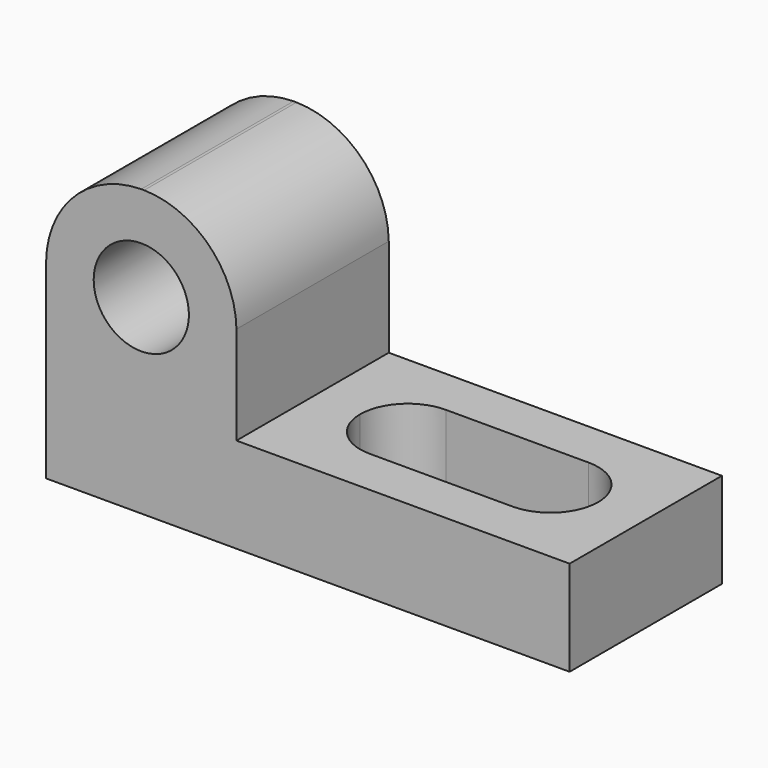
from build123d import *

# Parameters (mm, degrees)
F1_DEPTH = 25.4
F3_DEPTH = 25.401
F5_DEPTH = 25.401
F7_DEPTH = 38.101


with BuildPart() as f1:
    # F0 (on Front) → F1 (new body)
    with BuildSketch(Plane.XZ):
        Polygon((0, 38.1), (0, 0), (69.85, 0), (69.85, 12.7), (25.4, 12.7), (25.4, 38.1), align=None)
    extrude(amount=F1_DEPTH)

    # F2 (on face) → F3 (cut, through all)
    with BuildSketch(Plane.XZ.offset(25.4)):
        with BuildLine():
            Line((6.35, 25.4), (19.05, 25.4))
            ThreePointArc((19.05, 25.4), (12.7, 31.75), (6.35, 25.4))
        make_face()
        with BuildLine():
            ThreePointArc((6.35, 25.4), (12.7, 19.05), (19.05, 25.4))
            Line((19.05, 25.4), (6.35, 25.4))
        make_face()
    extrude(amount=-F3_DEPTH, mode=Mode.SUBTRACT)

    # F4 (on face) → F5 (cut, through all)
    with BuildSketch(Plane.XZ.offset(25.4)):
        with BuildLine():
            ThreePointArc((0, 25.4), (3.7630086547, 34.3369913453), (12.7, 38.1))
            Line((12.7, 38.1), (0, 38.1))
            Line((0, 38.1), (0, 25.4))
        make_face()
        with BuildLine():
            ThreePointArc((13.0906473624, 38.1), (21.7385437163, 34.4385437163), (25.4, 25.7906473624))
            Line((25.4, 25.7906473624), (25.4, 38.1))
            Line((25.4, 38.1), (13.0906473624, 38.1))
        make_face()
    extrude(amount=-F5_DEPTH, mode=Mode.SUBTRACT)

    # F6 (on face) → F7 (cut, through all)
    with BuildSketch(Plane(origin=(0, 0, 0), x_dir=(1, 0, 0), z_dir=(0, 0, -1))):
        with BuildLine():
            Line((38.1, 6.35), (57.15, 6.35))
            ThreePointArc((57.15, 6.35), (61.6401280605, 8.2098719395), (63.5, 12.7))
            ThreePointArc((63.5, 12.7), (61.6401280605, 17.1901280605), (57.15, 19.05))
            Line((57.15, 19.05), (38.1, 19.05))
            ThreePointArc((38.1, 19.05), (33.6098719395, 17.1901280605), (31.75, 12.7))
            ThreePointArc((31.75, 12.7), (33.6098719395, 8.2098719395), (38.1, 6.35))
        make_face()
    extrude(amount=-F7_DEPTH, mode=Mode.SUBTRACT)


solid = f1.part
